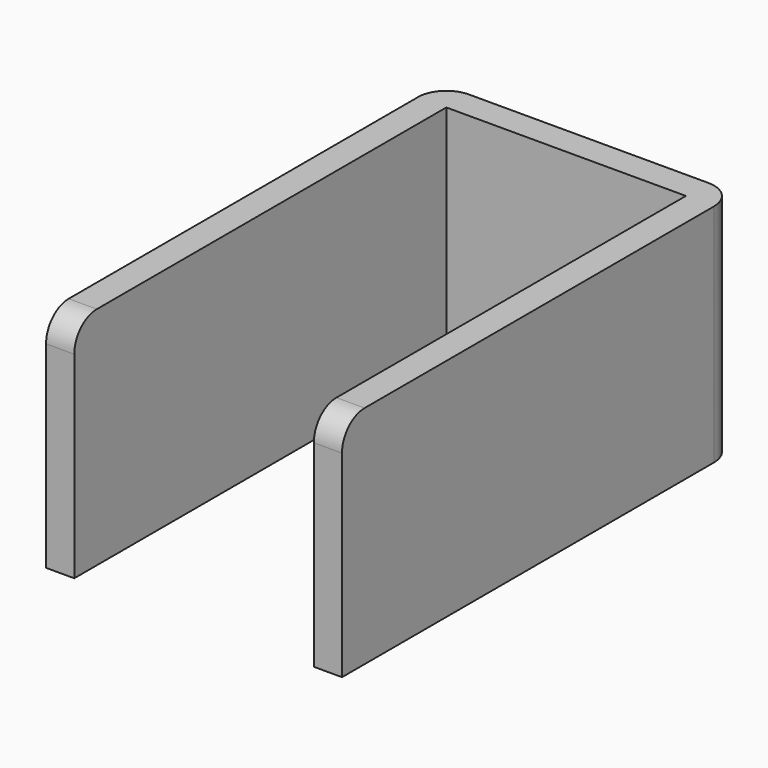
from build123d import *

# Parameters (mm, degrees)
BOX014_W     = 2
BOX014_H     = 35
BOX014_DEPTH = 16
BOX015_W     = 2
BOX015_H     = 35
BOX015_DEPTH = 16
BOX017_W     = 21
BOX017_H     = 2
BOX017_DEPTH = 16
FILLET012_R  = 2


with BuildPart() as cubo013:
    # Box014 → Box014 (new body)
    with BuildSketch(Plane(origin=(29, 29, -46), x_dir=(1, 0, 0), z_dir=(0, 0, 1))):
        with Locations((1, 17.5)):
            Rectangle(BOX014_W, BOX014_H)
    extrude(amount=BOX014_DEPTH)


with BuildPart() as cubo014:
    # Box015 → Box015 (new body)
    with BuildSketch(Plane(origin=(48, 29, -46), x_dir=(1, 0, 0), z_dir=(0, 0, 1))):
        with Locations((1, 17.5)):
            Rectangle(BOX015_W, BOX015_H)
    extrude(amount=BOX015_DEPTH)


with BuildPart() as fillet012:
    # Box017 → Box017 (new body)
    with BuildSketch(Plane(origin=(29, 62, -46), x_dir=(1, 0, 0), z_dir=(0, 0, 1))):
        with Locations((10.5, 1)):
            Rectangle(BOX017_W, BOX017_H)
    extrude(amount=BOX017_DEPTH)

    # Fusion: union Cubo013, Cubo014
    add(cubo013.part)
    add(cubo014.part)

    # Fillet012
    fillet012_edges = [fillet012.edges().sort_by_distance(p)[0] for p in [
        (30, 29, -30),
        (49, 29, -30),
        (29, 64, -38),
        (50, 64, -38),
    ]]
    fillet(fillet012_edges, radius=FILLET012_R)


with BuildPart() as fillet012_1:
    # Fillet012 placement: moved
    add(fillet012.part.moved(Location((0, -13, 3))))


solid = fillet012_1.part
